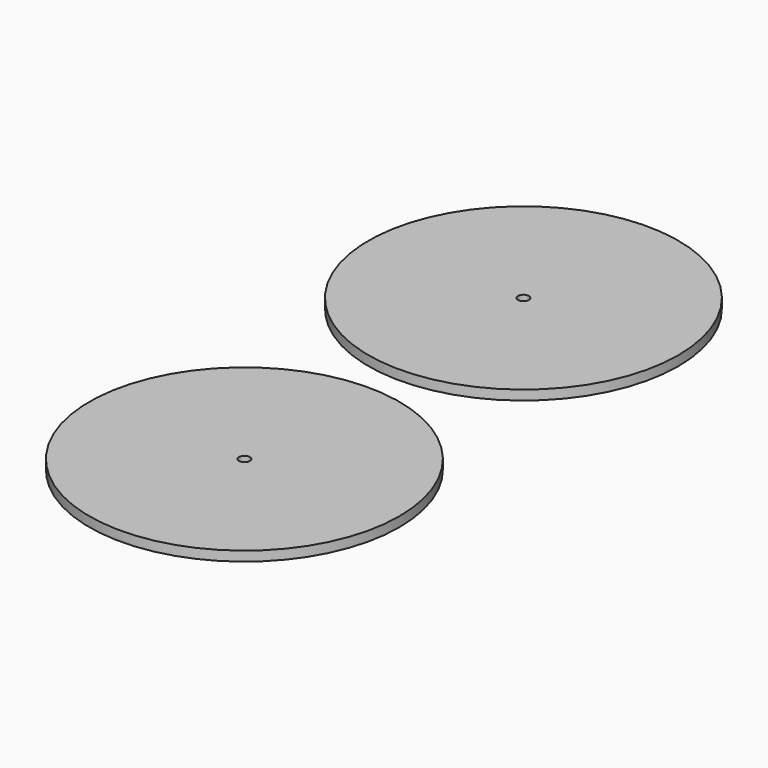
from build123d import *

# Parameters (mm, degrees)
F0_R     = 50.8
F0_R_2   = 1.785938
F1_DEPTH = 3.175
F2_DEPTH = 3.175


with BuildPart() as f1:
    # F0 (on Top) → F1 (new body)
    with BuildSketch(Plane.XY):
        with Locations((0, -48.552478)):
            Circle(F0_R)
        with Locations((0, -48.552478)):
            Circle(F0_R_2, mode=Mode.SUBTRACT)
    extrude(amount=F1_DEPTH)


with BuildPart() as f2:
    # F0 (on Top) → F2 (new body)
    with BuildSketch(Plane.XY):
        with Locations((0, -48.552478)):
            Circle(F0_R)
        with Locations((0, -48.552478)):
            Circle(F0_R_2, mode=Mode.SUBTRACT)
        with Locations((0, -162.852478)):
            Circle(F0_R)
        with Locations((0, -162.852478)):
            Circle(F0_R_2, mode=Mode.SUBTRACT)
    extrude(amount=F2_DEPTH)


solid = Compound([f1.part, f2.part])
